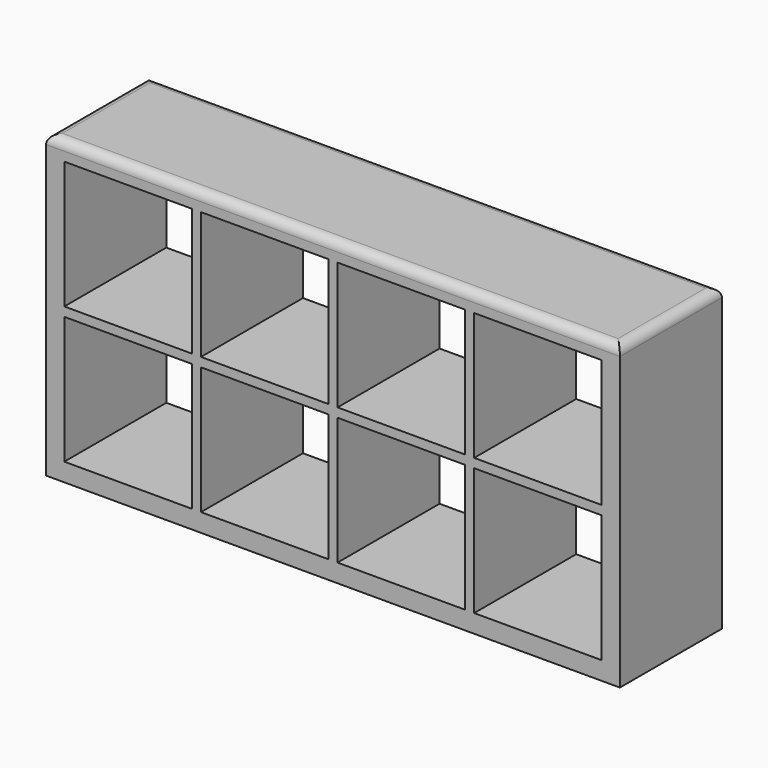
from build123d import *

# Parameters (mm, degrees)
F0_W     = 80.01
F0_H     = 41.91
F0_W_2   = 17.78
F0_H_2   = 17.78
F1_DEPTH = 17.78
F2_R     = 1.27


with BuildPart() as f1:
    # F0 (on Front) → F1 (new body)
    with BuildSketch(Plane.XZ):
        with Locations((-0.565825, 25.926393)):
            Rectangle(F0_W, F0_H)
        with Locations((-29.140825, 16.401393)):
            Rectangle(F0_W_2, F0_H_2, mode=Mode.SUBTRACT)
        with Locations((-10.090825, 16.401393)):
            Rectangle(F0_W_2, F0_H_2, mode=Mode.SUBTRACT)
        with Locations((8.959175, 16.401393)):
            Rectangle(F0_W_2, F0_H_2, mode=Mode.SUBTRACT)
        with Locations((28.009175, 16.401393)):
            Rectangle(F0_W_2, F0_H_2, mode=Mode.SUBTRACT)
        with Locations((-29.140825, 35.451393)):
            Rectangle(F0_W_2, F0_H_2, mode=Mode.SUBTRACT)
        with Locations((-10.090825, 35.451393)):
            Rectangle(F0_W_2, F0_H_2, mode=Mode.SUBTRACT)
        with Locations((8.959175, 35.451393)):
            Rectangle(F0_W_2, F0_H_2, mode=Mode.SUBTRACT)
        with Locations((28.009175, 35.451393)):
            Rectangle(F0_W_2, F0_H_2, mode=Mode.SUBTRACT)
    extrude(amount=F1_DEPTH)

    # F2
    f2_edges = [f1.edges().sort_by_distance(p)[0] for p in [
        (39.439175, -8.89, 46.881393),
        (-40.570825, -8.89, 46.881393),
        (-0.565825, 0, 46.881393),
        (-0.565825, -17.78, 46.881393),
    ]]
    fillet(f2_edges, radius=F2_R)


solid = f1.part
